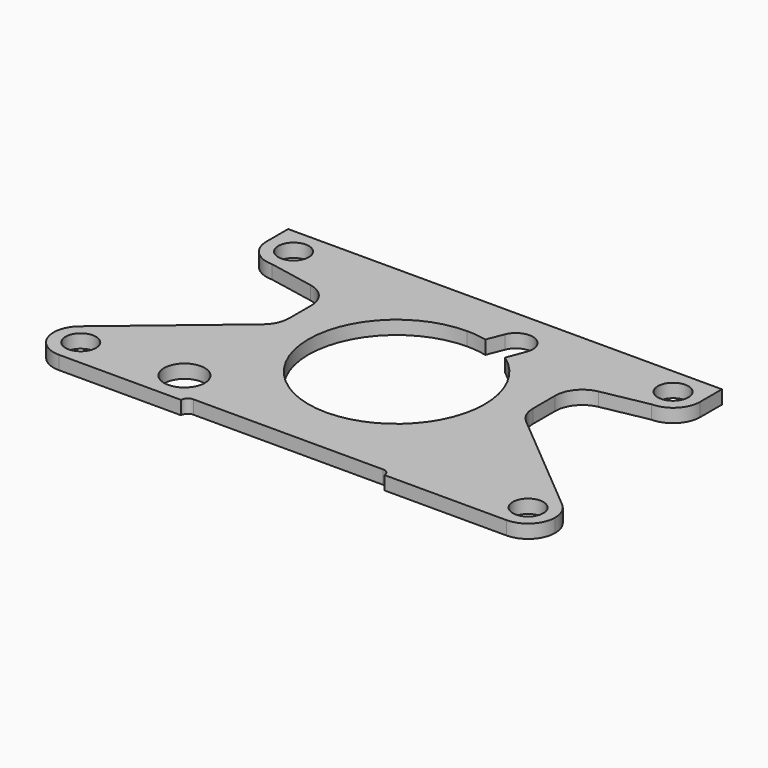
from build123d import *

# Parameters (mm, degrees)
F0_R     = 7.14375
F0_R_2   = 9.525
F1_DEPTH = 6.35


with BuildPart() as f1:
    # F0 (on Top) → F1 (new body)
    with BuildSketch(Plane.XY):
        with BuildLine():
            Line((0, 33.593392), (0, 55.818392))
            Line((0, 55.818392), (-88.9, 55.818392))
            Line((-88.9, 55.818392), (-101.6, 55.818392))
            Line((-101.6, 55.818392), (-101.6, 43.118392))
            ThreePointArc((-101.6, 43.118392), (-97.880256, 34.138136), (-88.9, 30.418392))
            Line((-88.9, 30.418392), (-67.426726, 26.244411))
            ThreePointArc((-67.426726, 26.244411), (-60.050368, 21.855939), (-57.15, 13.777745))
            Line((-57.15, 13.777745), (-57.15, 0.806292))
            ThreePointArc((-57.15, 0.806292), (-58.339891, -4.56096), (-61.686597, -8.922472))
            Line((-61.686597, -8.922472), (-112.938403, -51.927843))
            ThreePointArc((-112.938403, -51.927843), (-117.233084, -59.189596), (-116.030008, -67.540042))
            ThreePointArc((-116.030008, -67.540042), (-111.354148, -72.51961), (-104.775, -74.356608))
            Line((-104.775, -74.356608), (-47.625, -74.356608))
            ThreePointArc((-47.625, -74.356608), (-46.695064, -72.111544), (-44.45, -71.181608))
            Line((-44.45, -71.181608), (0, -71.181608))
            Line((0, -71.181608), (0, -48.956608))
            ThreePointArc((0, -48.956608), (-41.275, -7.681608), (0, 33.593392))
        make_face()
        with Locations((-104.775, -61.656608)):
            Circle(F0_R, mode=Mode.SUBTRACT)
        with Locations((-58.7375, -58.481608)):
            Circle(F0_R_2, mode=Mode.SUBTRACT)
        with Locations((-88.9, 43.118392)):
            Circle(F0_R, mode=Mode.SUBTRACT)
        with BuildLine():
            Line((88.9, 55.818392), (0, 55.818392))
            Line((0, 55.818392), (0, 33.593392))
            ThreePointArc((0, 33.593392), (4.724763, 33.322078), (9.38741, 32.511702))
            Line((9.38741, 32.511702), (12.483631, 40.284153))
            ThreePointArc((12.483631, 40.284153), (22.738561, 44.742885), (27.27561, 34.522363))
            Line((27.27561, 34.522363), (23.993868, 25.902911))
            ThreePointArc((23.993868, 25.902911), (39.305385, -20.279715), (0, -48.956608))
            Line((0, -48.956608), (0, -71.181608))
            Line((0, -71.181608), (44.45, -71.181608))
            ThreePointArc((44.45, -71.181608), (46.695064, -72.111544), (47.625, -74.356608))
            Line((47.625, -74.356608), (104.775, -74.356608))
            ThreePointArc((104.775, -74.356608), (113.685205, -70.706373), (117.473466, -61.85397))
            ThreePointArc((117.473466, -61.85397), (116.326467, -56.378956), (112.938403, -51.927843))
            Line((112.938403, -51.927843), (61.686597, -8.922472))
            ThreePointArc((61.686597, -8.922472), (58.339891, -4.56096), (57.15, 0.806292))
            Line((57.15, 0.806292), (57.15, 13.777745))
            ThreePointArc((57.15, 13.777745), (60.050368, 21.855939), (67.426726, 26.244411))
            Line((67.426726, 26.244411), (88.9, 30.418392))
            ThreePointArc((88.9, 30.418392), (97.880256, 34.138136), (101.6, 43.118392))
            Line((101.6, 43.118392), (101.6, 55.818392))
            Line((101.6, 55.818392), (88.9, 55.818392))
        make_face()
        with Locations((104.775, -61.656608)):
            Circle(F0_R, mode=Mode.SUBTRACT)
        with Locations((88.9, 43.118392)):
            Circle(F0_R, mode=Mode.SUBTRACT)
    extrude(amount=F1_DEPTH)


solid = f1.part
